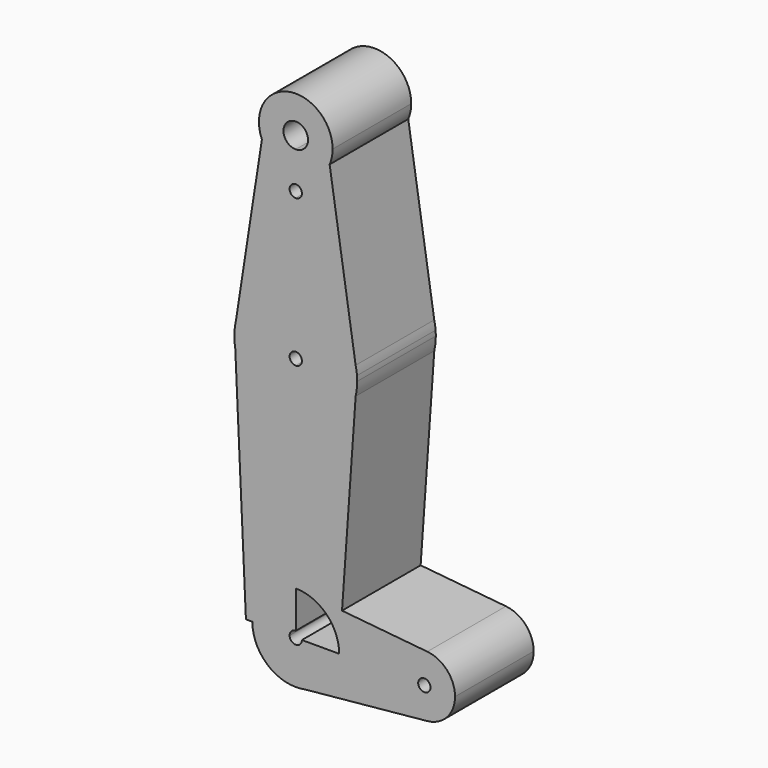
from build123d import *

# Parameters (mm, degrees)
F1_DEPTH = 25.4


with BuildPart() as f1:
    # F0 (on Front) → F1 (new body)
    with BuildSketch(Plane.XZ):
        with BuildLine():
            ThreePointArc((-1.5875, 0), (-1.1225320151, 1.1225320151), (0, 1.5875))
            Line((0, 1.5875), (0, 11.2192574161))
            ThreePointArc((0, 11.2192574161), (-7.9332129988, 7.9332129988), (-11.2192574161, 0))
            Line((-11.2192574161, 0), (-1.5875, 0))
        make_face()
        with BuildLine():
            Line((11.2192574161, 0), (1.5875, 0))
            ThreePointArc((1.5875, 0), (0, -1.5875), (-1.5875, 0))
            Line((-1.5875, 0), (-11.2192574161, 0))
            ThreePointArc((-11.2192574161, 0), (-7.9332129988, -7.9332129988), (0, -11.2192574161))
            Line((0, -11.2192574161), (2.1697970219, -11.007439205))
            ThreePointArc((2.1697970219, -11.007439205), (8.6664654935, -7.1248938813), (11.2192574161, 0))
        make_face()
        with BuildLine():
            ThreePointArc((-11.2192574161, 0), (-7.9332129988, 7.9332129988), (0, 11.2192574161))
            Line((0, 11.2192574161), (0, 47.625))
            ThreePointArc((0, 47.625), (-10.2155761082, 51.3485544162), (-15.6389312991, 60.7724639652))
            Line((-15.6389312991, 60.7724639652), (-12.8842582926, 0))
            Line((-12.8842582926, 0), (-11.2192574161, 0))
        make_face()
        with BuildLine():
            Line((0, 47.625), (0, 11.2192574161))
            ThreePointArc((0, 11.2192574161), (1.0900557407, 11.166177298), (2.1697970219, 11.007439205))
            Line((2.1697970219, 11.007439205), (11.9567549914, 10.0520245243))
            Line((11.9567549914, 10.0520245243), (15.4818237673, 59.9887669064))
            ThreePointArc((15.4818237673, 59.9887669064), (9.9064322447, 51.0952337716), (0, 47.625))
        make_face()
        with BuildLine():
            ThreePointArc((2.1697970219, 11.007439205), (8.6664654935, 7.1248938813), (11.2192574161, 0))
            Line((11.2192574161, 0), (11.2471757098, 0))
            Line((11.2471757098, 0), (11.9567549914, 10.0520245243))
            Line((11.9567549914, 10.0520245243), (2.1697970219, 11.007439205))
        make_face()
        with BuildLine():
            Line((11.2471757098, 0), (11.2192574161, 0))
            ThreePointArc((11.2192574161, 0), (8.6664654935, -7.1248938813), (2.1697970219, -11.007439205))
            Line((2.1697970219, -11.007439205), (34.0019449122, -7.8999464061))
            ThreePointArc((34.0019449122, -7.8999464061), (27.8977093115, -5.8790018171), (25.2932425839, 0))
            Line((25.2932425839, 0), (11.2471757098, 0))
        make_face()
        with BuildLine():
            ThreePointArc((-15.6389312991, 60.7724639652), (-10.2155761082, 51.3485544162), (0, 47.625))
            Line((0, 47.625), (0, 61.9125))
            ThreePointArc((0, 61.9125), (-1.5875, 63.5), (0, 65.0875))
            Line((0, 65.0875), (0, 79.375))
            ThreePointArc((0, 79.375), (-9.8977227148, 75.9117166444), (-15.47687934, 67.0329634722))
            Line((-15.47687934, 67.0329634722), (-15.8215583064, 64.8015059575))
            Line((-15.8215583064, 64.8015059575), (-15.6389312991, 60.7724639652))
        make_face()
        with BuildLine():
            Line((0, 61.9125), (0, 47.625))
            ThreePointArc((0, 47.625), (9.9064322447, 51.0952337716), (15.4818237673, 59.9887669064))
            Line((15.4818237673, 59.9887669064), (15.8215583064, 64.8015059575))
            Line((15.8215583064, 64.8015059575), (15.47687934, 67.0329634722))
            ThreePointArc((15.47687934, 67.0329634722), (9.8977227148, 75.9117166444), (0, 79.375))
            Line((0, 79.375), (0, 65.0875))
            ThreePointArc((0, 65.0875), (1.1225320151, 64.6225320151), (1.5875, 63.5))
            ThreePointArc((1.5875, 63.5), (1.1225320151, 62.3774679849), (0, 61.9125))
        make_face()
        with BuildLine():
            Line((11.9567549914, 10.0520245243), (11.2471757098, 0))
            Line((11.2471757098, 0), (25.2932425839, 0))
            ThreePointArc((25.2932425839, 0), (27.8977093115, 5.8790018171), (34.0019449122, 7.8999464061))
            Line((34.0019449122, 7.8999464061), (11.9567549914, 10.0520245243))
        make_face()
        with BuildLine():
            ThreePointArc((0, -11.2192574161), (1.0900557407, -11.166177298), (2.1697970219, -11.007439205))
            Line((2.1697970219, -11.007439205), (0, -11.2192574161))
        make_face()
        with BuildLine():
            ThreePointArc((-15.8215583064, 64.8015059575), (-15.8587167324, 62.7811616306), (-15.6389312991, 60.7724639652))
            Line((-15.6389312991, 60.7724639652), (-15.8215583064, 64.8015059575))
        make_face()
        with BuildLine():
            Line((15.8215583064, 64.8015059575), (15.4818237673, 59.9887669064))
            ThreePointArc((15.4818237673, 59.9887669064), (15.7763997367, 61.7334110985), (15.875, 63.5))
            ThreePointArc((15.875, 63.5), (15.8616339498, 64.1513013458), (15.8215583064, 64.8015059575))
        make_face()
        with BuildLine():
            ThreePointArc((34.0019449122, 7.8999464061), (27.8977093115, 5.8790018171), (25.2932425839, 0))
            ThreePointArc((25.2932425839, 0), (27.8977093115, -5.8790018171), (34.0019449122, -7.8999464061))
            ThreePointArc((34.0019449122, -7.8999464061), (39.109744401, -5.3330332724), (41.1682425839, 0))
            ThreePointArc((41.1682425839, 0), (39.109744401, 5.3330332724), (34.0019449122, 7.8999464061))
        make_face()
        with BuildLine():
            ThreePointArc((34.8182425839, 0), (33.2307425839, -1.5875), (31.6432425839, 0))
            ThreePointArc((31.6432425839, 0), (33.2307425839, 1.5875), (34.8182425839, 0))
        make_face(mode=Mode.SUBTRACT)
        with BuildLine():
            ThreePointArc((-15.47687934, 67.0329634722), (-15.6889419795, 65.9233704967), (-15.8215583064, 64.8015059575))
            Line((-15.8215583064, 64.8015059575), (-15.47687934, 67.0329634722))
        make_face()
        with BuildLine():
            Line((15.47687934, 67.0329634722), (15.8215583064, 64.8015059575))
            ThreePointArc((15.8215583064, 64.8015059575), (15.6889419795, 65.9233704967), (15.47687934, 67.0329634722))
        make_face()
        with BuildLine():
            ThreePointArc((-15.47687934, 67.0329634722), (-9.8977227148, 75.9117166444), (0, 79.375))
            Line((0, 79.375), (0, 100.0221994281))
            ThreePointArc((0, 100.0221994281), (-1.5875, 101.6096994281), (0, 103.1971994281))
            Line((0, 103.1971994281), (0, 104.775))
            ThreePointArc((0, 104.775), (-5.2438523258, 106.3484191644), (-8.755257881, 110.5488555831))
            Line((-8.755257881, 110.5488555831), (-15.47687934, 67.0329634722))
        make_face()
        with BuildLine():
            Line((0, 100.0221994281), (0, 79.375))
            ThreePointArc((0, 79.375), (9.8977227148, 75.9117166444), (15.47687934, 67.0329634722))
            Line((15.47687934, 67.0329634722), (8.755257881, 110.5488555831))
            ThreePointArc((8.755257881, 110.5488555831), (5.2438523258, 106.3484191644), (0, 104.775))
            Line((0, 104.775), (0, 103.1971994281))
            ThreePointArc((0, 103.1971994281), (1.1225320151, 102.7322314432), (1.5875, 101.6096994281))
            ThreePointArc((1.5875, 101.6096994281), (1.1225320151, 100.4871674129), (0, 100.0221994281))
        make_face()
        with BuildLine():
            ThreePointArc((9.525, 114.3), (-1.9146531909, 123.6305802691), (-8.755257881, 110.5488555831))
            ThreePointArc((-8.755257881, 110.5488555831), (-5.2438523258, 106.3484191644), (0, 104.775))
            ThreePointArc((0, 104.775), (5.2438523258, 106.3484191644), (8.755257881, 110.5488555831))
            ThreePointArc((8.755257881, 110.5488555831), (9.3305802691, 112.3853468091), (9.525, 114.3))
        make_face()
        with BuildLine():
            ThreePointArc((3.175, 114.3), (2.2450640303, 112.0549359697), (0, 111.125))
            ThreePointArc((0, 111.125), (-2.2450640303, 116.5450640303), (3.175, 114.3))
        make_face(mode=Mode.SUBTRACT)
    extrude(amount=F1_DEPTH)


solid = f1.part
